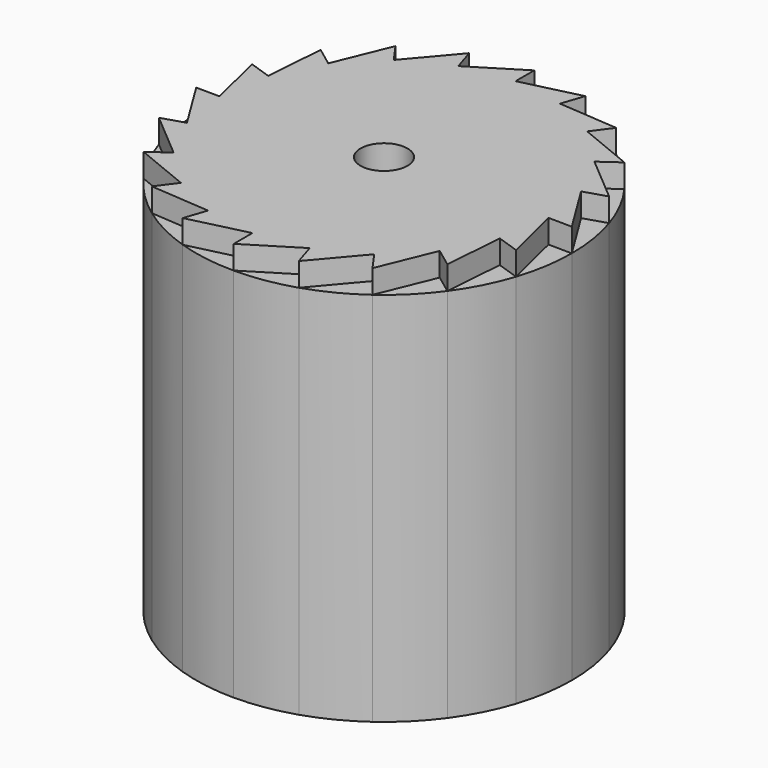
from build123d import *

# Parameters (mm, degrees)
F0_R     = 6.35
F1_DEPTH = 107.95
F2_DEPTH = 101.6


with BuildPart() as f1:
    # F0 (on Top) → F1 (new body)
    with BuildSketch(Plane.XY):
        Polygon((42.274462, 13.735805), (48.334151, 15.634893), (35.960805, 26.127054), (41.137061, 29.805741), (26.127054, 35.960805), (29.91319, 41.058995), (13.735805, 42.274462), (15.761207, 48.293109), (0, 44.45), (0, 50.758937), (-13.735805, 42.274462), (-15.634893, 48.334151), (-26.127054, 35.960805), (-29.805741, 41.137061), (-35.960805, 26.127054), (-41.058995, 29.91319), (-42.274462, 13.735805), (-48.293109, 15.761207), (-44.45, 0), (-50.799957, 0.066407), (-42.274462, -13.735805), (-48.334151, -15.634893), (-35.960805, -26.127054), (-41.137061, -29.805741), (-26.127054, -35.960805), (-29.91319, -41.058995), (-13.735805, -42.274462), (-15.761207, -48.293109), (0, -44.45), (0, -50.758937), (13.735805, -42.274462), (15.634893, -48.334151), (26.127054, -35.960805), (29.805741, -41.137061), (35.960805, -26.127054), (41.058995, -29.91319), (42.274462, -13.735805), (48.293109, -15.761207), (44.45, 0), (50.799957, -0.066407), align=None)
        Circle(F0_R, mode=Mode.SUBTRACT)
    extrude(amount=F1_DEPTH)

    # F0 (on Top) → F2 (join)
    with BuildSketch(Plane.XY):
        with BuildLine():
            ThreePointArc((50.799957, -0.066407), (50.799989, -0.033204), (50.8, 0))
            ThreePointArc((50.8, 0), (50.179751, 7.914074), (48.334151, 15.634893))
            Line((48.334151, 15.634893), (42.274462, 13.735805))
            Line((42.274462, 13.735805), (50.799957, -0.066407))
        make_face()
        with BuildLine():
            Line((35.960805, 26.127054), (48.334151, 15.634893))
            ThreePointArc((48.334151, 15.634893), (45.293241, 23.003528), (41.137061, 29.805741))
            Line((41.137061, 29.805741), (35.960805, 26.127054))
        make_face()
        with BuildLine():
            ThreePointArc((48.293109, -15.761207), (50.164136, -8.012454), (50.799957, -0.066407))
            Line((50.799957, -0.066407), (44.45, 0))
            Line((44.45, 0), (48.293109, -15.761207))
        make_face()
        with BuildLine():
            Line((26.127054, 35.960805), (41.137061, 29.805741))
            ThreePointArc((41.137061, 29.805741), (35.967951, 35.874037), (29.91319, 41.058995))
            Line((29.91319, 41.058995), (26.127054, 35.960805))
        make_face()
        with BuildLine():
            ThreePointArc((41.058995, -29.91319), (45.232944, -23.121867), (48.293109, -15.761207))
            Line((48.293109, -15.761207), (42.274462, -13.735805))
            Line((42.274462, -13.735805), (41.058995, -29.91319))
        make_face()
        with BuildLine():
            Line((13.735805, 42.274462), (29.91319, 41.058995))
            ThreePointArc((29.91319, 41.058995), (23.121867, 45.232944), (15.761207, 48.293109))
            Line((15.761207, 48.293109), (13.735805, 42.274462))
        make_face()
        with BuildLine():
            ThreePointArc((29.805741, -41.137061), (35.874037, -35.967951), (41.058995, -29.91319))
            Line((41.058995, -29.91319), (35.960805, -26.127054))
            Line((35.960805, -26.127054), (29.805741, -41.137061))
        make_face()
        with BuildLine():
            Line((0, 44.45), (15.761207, 48.293109))
            ThreePointArc((15.761207, 48.293109), (8.012454, 50.164136), (0.066407, 50.799957))
            Line((0.066407, 50.799957), (0, 50.758937))
            Line((0, 50.758937), (0, 44.45))
        make_face()
        with BuildLine():
            ThreePointArc((15.634893, -48.334151), (23.003528, -45.293241), (29.805741, -41.137061))
            Line((29.805741, -41.137061), (26.127054, -35.960805))
            Line((26.127054, -35.960805), (15.634893, -48.334151))
        make_face()
        with BuildLine():
            Line((0, 50.758937), (0.066407, 50.799957))
            ThreePointArc((0.066407, 50.799957), (0.033204, 50.799989), (0, 50.8))
            Line((0, 50.8), (0, 50.758937))
        make_face()
        with BuildLine():
            ThreePointArc((0, -50.8), (7.914074, -50.179751), (15.634893, -48.334151))
            Line((15.634893, -48.334151), (13.735805, -42.274462))
            Line((13.735805, -42.274462), (0, -50.758937))
            Line((0, -50.758937), (0, -50.8))
        make_face()
        with BuildLine():
            Line((0, 50.758937), (0, 50.8))
            ThreePointArc((0, 50.8), (-7.914074, 50.179751), (-15.634893, 48.334151))
            Line((-15.634893, 48.334151), (-13.735805, 42.274462))
            Line((-13.735805, 42.274462), (0, 50.758937))
        make_face()
        with BuildLine():
            ThreePointArc((-0.066407, -50.799957), (-0.033204, -50.799989), (0, -50.8))
            Line((0, -50.8), (0, -50.758937))
            Line((0, -50.758937), (-0.066407, -50.799957))
        make_face()
        with BuildLine():
            Line((-26.127054, 35.960805), (-15.634893, 48.334151))
            ThreePointArc((-15.634893, 48.334151), (-23.003528, 45.293241), (-29.805741, 41.137061))
            Line((-29.805741, 41.137061), (-26.127054, 35.960805))
        make_face()
        with BuildLine():
            ThreePointArc((-15.761207, -48.293109), (-8.012454, -50.164136), (-0.066407, -50.799957))
            Line((-0.066407, -50.799957), (0, -50.758937))
            Line((0, -50.758937), (0, -44.45))
            Line((0, -44.45), (-15.761207, -48.293109))
        make_face()
        with BuildLine():
            Line((-35.960805, 26.127054), (-29.805741, 41.137061))
            ThreePointArc((-29.805741, 41.137061), (-35.874037, 35.967951), (-41.058995, 29.91319))
            Line((-41.058995, 29.91319), (-35.960805, 26.127054))
        make_face()
        with BuildLine():
            ThreePointArc((-29.91319, -41.058995), (-23.121867, -45.232944), (-15.761207, -48.293109))
            Line((-15.761207, -48.293109), (-13.735805, -42.274462))
            Line((-13.735805, -42.274462), (-29.91319, -41.058995))
        make_face()
        with BuildLine():
            Line((-42.274462, 13.735805), (-41.058995, 29.91319))
            ThreePointArc((-41.058995, 29.91319), (-45.232944, 23.121867), (-48.293109, 15.761207))
            Line((-48.293109, 15.761207), (-42.274462, 13.735805))
        make_face()
        with BuildLine():
            ThreePointArc((-41.137061, -29.805741), (-35.967951, -35.874037), (-29.91319, -41.058995))
            Line((-29.91319, -41.058995), (-26.127054, -35.960805))
            Line((-26.127054, -35.960805), (-41.137061, -29.805741))
        make_face()
        with BuildLine():
            Line((-44.45, 0), (-48.293109, 15.761207))
            ThreePointArc((-48.293109, 15.761207), (-50.164136, 8.012454), (-50.799957, 0.066407))
            Line((-50.799957, 0.066407), (-44.45, 0))
        make_face()
        with BuildLine():
            ThreePointArc((-48.334151, -15.634893), (-45.293241, -23.003528), (-41.137061, -29.805741))
            Line((-41.137061, -29.805741), (-35.960805, -26.127054))
            Line((-35.960805, -26.127054), (-48.334151, -15.634893))
        make_face()
        with BuildLine():
            Line((-42.274462, -13.735805), (-50.799957, 0.066407))
            ThreePointArc((-50.799957, 0.066407), (-50.184913, -7.881274), (-48.334151, -15.634893))
            Line((-48.334151, -15.634893), (-42.274462, -13.735805))
        make_face()
    extrude(amount=F2_DEPTH)


solid = f1.part
